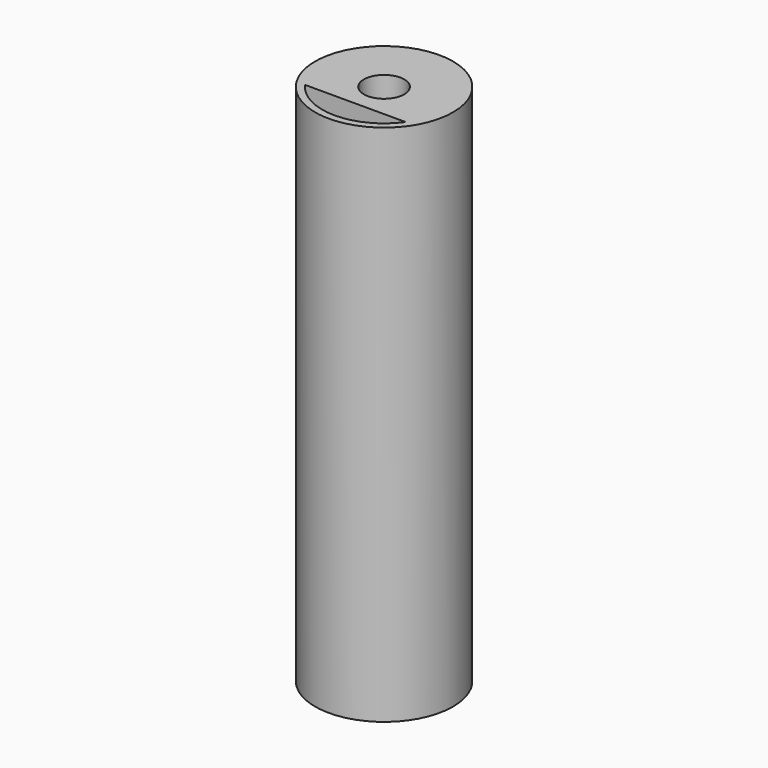
from build123d import *

# Parameters (mm, degrees)
F0_R     = 14.5
F1_DEPTH = 5
F2_R     = 14.5
F2_R_2   = 13
F3_DEPTH = 105
F4_R     = 4.25
F5_DEPTH = 5
F6_R     = 4.25
F7_DEPTH = 5


with BuildPart() as f1:
    # F0 (on Top) → F1 (new body)
    with BuildSketch(Plane.XY):
        Circle(F0_R)
    extrude(amount=F1_DEPTH)

    # F2 (on face) → F3 (join)
    with BuildSketch(Plane.XY.offset(5)):
        Circle(F2_R)
        Circle(F2_R_2, mode=Mode.SUBTRACT)
    extrude(amount=F3_DEPTH)

    # F4 (on face) → F5 (cut, through all)
    with BuildSketch(Plane(origin=(0, 0, 0), x_dir=(1, 0, 0), z_dir=(0, 0, -1))):
        Circle(F4_R)
    extrude(amount=-F5_DEPTH, mode=Mode.SUBTRACT)

    # F6 (on face) → F7 (join)
    with BuildSketch(Plane.XY.offset(110)):
        with BuildLine():
            ThreePointArc((13, 0), (-3.9688128034, 12.3793588255), (-10.5766961433, -7.5586704315))
            Line((-10.5766961433, -7.5586704315), (10.5766961433, -7.5586704315))
            ThreePointArc((10.5766961433, -7.5586704315), (12.3793588255, -3.9688128034), (13, 0))
        make_face()
        Circle(F6_R, mode=Mode.SUBTRACT)
    extrude(amount=-F7_DEPTH)


solid = f1.part
